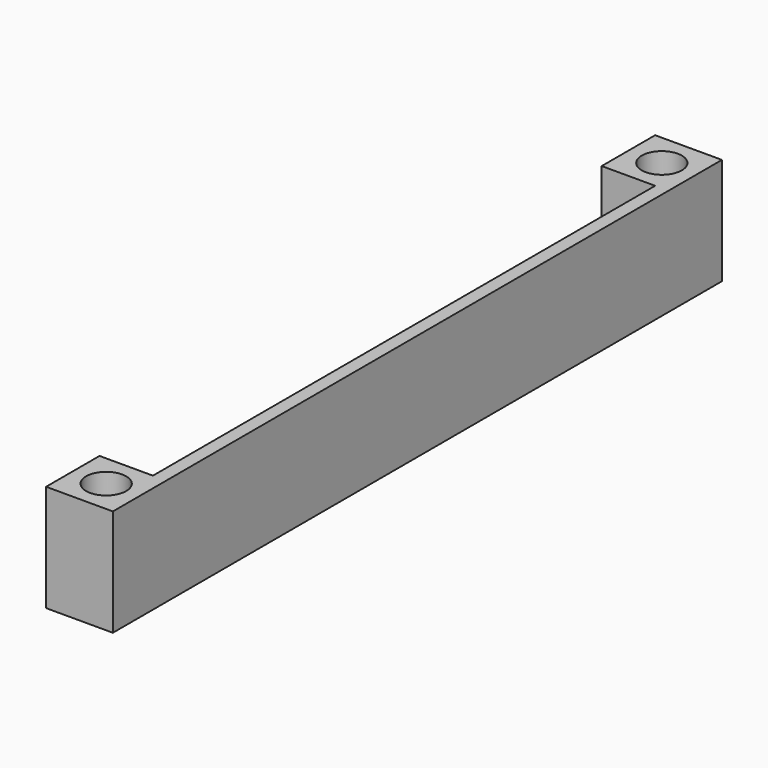
from build123d import *

# Parameters (mm, degrees)
F0_W     = 5
F0_H     = 5
F1_DEPTH = 8
F2_R     = 1.5
F3_DEPTH = 25
F4_W     = 1
F4_H     = 8
F5_DEPTH = 47
F6_W     = 1
F6_H     = 8
F6_W_2   = 4
F7_DEPTH = 5
F8_R     = 1.5
F9_DEPTH = 25


with BuildPart() as f1:
    # F0 (on Top) → F1 (new body)
    with BuildSketch(Plane.XY):
        with Locations((2.5, 2.5)):
            Rectangle(F0_W, F0_H)
    extrude(amount=F1_DEPTH)

    # F2 (on face) → F3 (cut)
    with BuildSketch(Plane.XY.offset(8)):
        with Locations((2.5, 2.5)):
            Circle(F2_R)
    extrude(amount=-F3_DEPTH, mode=Mode.SUBTRACT)

    # F4 (on face) → F5 (join)
    with BuildSketch(Plane.XZ):
        with Locations((4.5, 4)):
            Rectangle(F4_W, F4_H)
    extrude(amount=F5_DEPTH)

    # F6 (on face) → F7 (join)
    with BuildSketch(Plane.XZ.offset(47)):
        with Locations((4.5, 4)):
            Rectangle(F6_W, F6_H)
        with Locations((2, 4)):
            Rectangle(F6_W_2, F6_H)
    extrude(amount=F7_DEPTH)

    # F8 (on face) → F9 (cut)
    with BuildSketch(Plane.XY.offset(8)):
        with Locations((2.5, -49.5)):
            Circle(F8_R)
    extrude(amount=-F9_DEPTH, mode=Mode.SUBTRACT)


solid = f1.part
